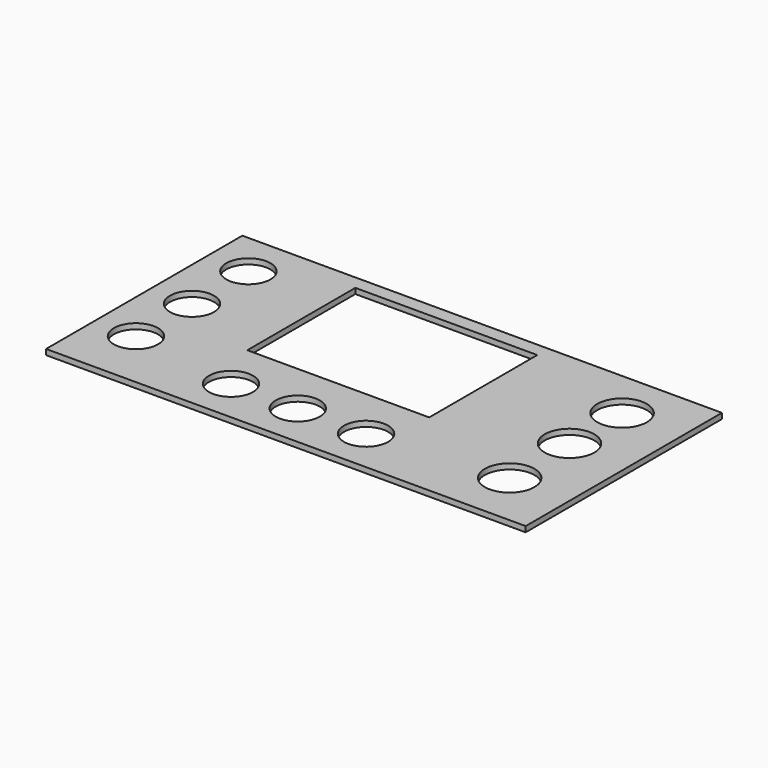
from build123d import *

# Parameters (mm, degrees)
SKETCH153_W      = 176
SKETCH153_H      = 2.5
EXTRUDE139_DEPTH = 4
SKETCH163_R      = 8
SKETCH163_R_2    = 9
EXTRUDE145_DEPTH = 4
SKETCH034_W      = 66
SKETCH034_H      = 49
EXTRUDE028_DEPTH = 4
SKETCH148_W      = 174
SKETCH148_H      = 90
EXTRUDE136_DEPTH = 2


with BuildPart() as clamshell:
    # Sketch153 → Extrude139 (new body)
    with BuildSketch(Plane(origin=(0, 0, 4.32), x_dir=(1, 0, 0), z_dir=(0, 0, -1))):
        with Locations((278, -270.25)):
            Rectangle(SKETCH153_W, SKETCH153_H)
    extrude(amount=-EXTRUDE139_DEPTH)


with BuildPart() as extrude145:
    # Sketch163 → Extrude145 (new body)
    with BuildSketch(Plane(origin=(0, 0, 4.32), x_dir=(1, 0, 0), z_dir=(0, 0, -1))):
        with Locations((206, -202)):
            Circle(SKETCH163_R)
        with Locations((206, -227.431152)):
            Circle(SKETCH163_R)
        with Locations((206, -253)):
            Circle(SKETCH163_R)
        with Locations((343, -200.226852)):
            Circle(SKETCH163_R_2)
        with Locations((343, -227.384705)):
            Circle(SKETCH163_R_2)
        with Locations((343, -251.212372)):
            Circle(SKETCH163_R_2)
        with Locations((245.289581, -196)):
            Circle(SKETCH163_R)
        with Locations((269.509308, -196)):
            Circle(SKETCH163_R)
        with Locations((294.293335, -196)):
            Circle(SKETCH163_R)
    extrude(amount=-EXTRUDE145_DEPTH)


with BuildPart() as bottom_holes:
    # Sketch034 → Extrude028 (new body)
    with BuildSketch(Plane(origin=(0, 0, 4.32), x_dir=(1, 0, 0), z_dir=(0, 0, -1))):
        with Locations((269, -239.5)):
            Rectangle(SKETCH034_W, SKETCH034_H)
    extrude(amount=-EXTRUDE028_DEPTH)

    # Compound007: union clamshell, Extrude145
    add(clamshell.part)
    add(extrude145.part)


with BuildPart() as floor001:
    # Sketch148 → Extrude136 (new body)
    with BuildSketch(Plane(origin=(0, 0, 5.32), x_dir=(1, 0, 0), z_dir=(0, 0, -1))):
        with Locations((278, -225)):
            Rectangle(SKETCH148_W, SKETCH148_H)
    extrude(amount=-EXTRUDE136_DEPTH)

    # Cut008: cut bottom holes
    add(bottom_holes.part, mode=Mode.SUBTRACT)


solid = floor001.part
